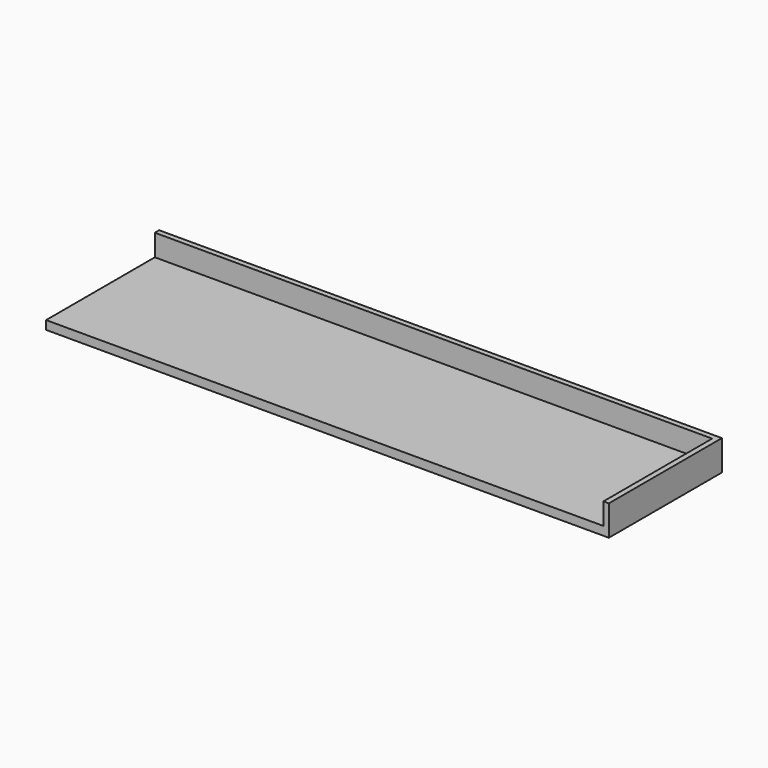
from build123d import *

# Parameters (mm, degrees)
F0_W     = 2575
F0_H     = 40
F1_DEPTH = 628
F2_W     = 2575
F2_H     = 140
F3_DEPTH = 25
F4_W     = 653
F4_H     = 140
F5_DEPTH = 25


with BuildPart() as f1:
    # F0 (on Front) → F1 (new body)
    with BuildSketch(Plane.XZ):
        Rectangle(F0_W, F0_H)
    extrude(amount=F1_DEPTH)

    # F2 (on face) → F3 (join)
    with BuildSketch(Plane(origin=(0, 0, 0), x_dir=(-1, 0, 0), z_dir=(0, 1, 0))):
        with Locations((0, 50)):
            Rectangle(F2_W, F2_H)
    extrude(amount=F3_DEPTH)

    # F4 (on face) → F5 (join)
    with BuildSketch(Plane.YZ.offset(1287.5)):
        with Locations((-301.5, 50)):
            Rectangle(F4_W, F4_H)
    extrude(amount=F5_DEPTH)


solid = f1.part
